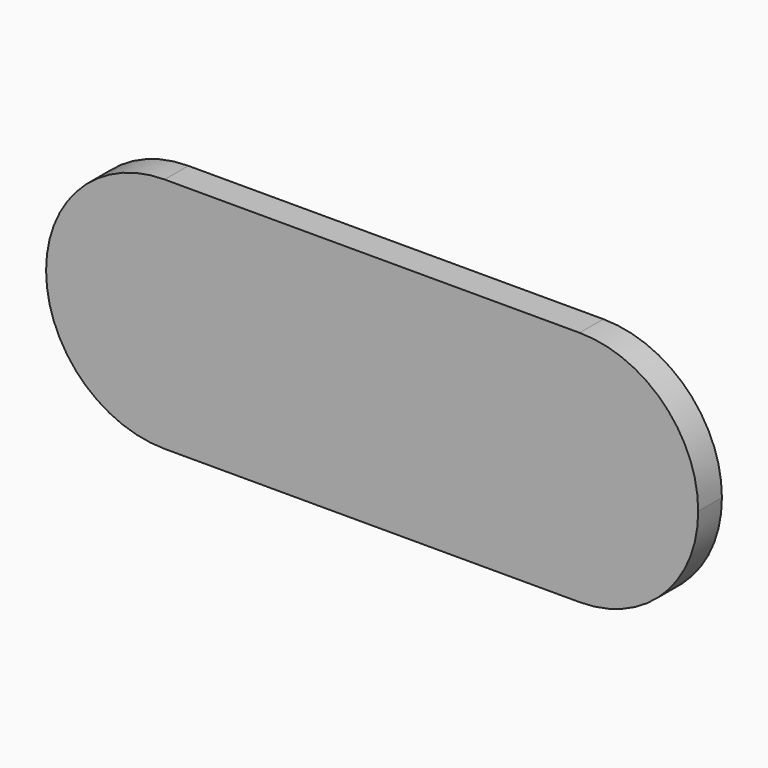
from build123d import *

# Parameters (mm, degrees)
F0_R     = 12.5
F1_DEPTH = 2.5


with BuildPart() as f1:
    # F0 (on Front) → F1 (new body, symmetric)
    with BuildSketch(Plane.XZ):
        with BuildLine():
            ThreePointArc((55, 0), (49.142136, 14.142136), (35, 20))
            Line((35, 20), (-35, 20))
            ThreePointArc((-35, 20), (-49.142136, 14.142136), (-55, 0))
            ThreePointArc((-55, 0), (-49.142136, -14.142136), (-35, -20))
            Line((-35, -20), (35, -20))
            ThreePointArc((35, -20), (49.142136, -14.142136), (55, 0))
        make_face()
        with Locations((35, 0)):
            Circle(F0_R, mode=Mode.SUBTRACT)
        with Locations((35, 0)):
            Circle(F0_R)
    extrude(amount=F1_DEPTH, both=True)


solid = f1.part
